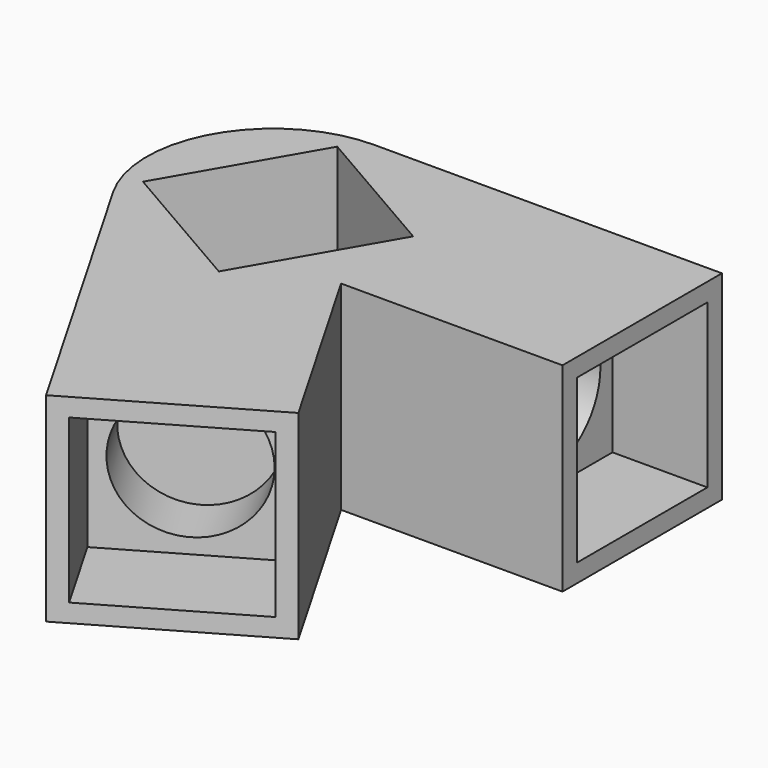
from build123d import *

# Parameters (mm, degrees)
F1_DEPTH  = 12.6
F2_W      = 10.3
F2_H      = 10.3
F3_DEPTH  = 6
F4_W      = 10.3
F4_H      = 10.3
F5_DEPTH  = 6
F6_R      = 4.2
F7_DEPTH  = 3.5
F8_R      = 4.2
F9_DEPTH  = 3.5
F11_DEPTH = 6
F13_DEPTH = 3.5


with BuildPart() as f1:
    # F0 (on Top) → F1 (new body)
    with BuildSketch(Plane.XY):
        with BuildLine():
            Line((0, -12.6), (0, 0))
            Line((0, 0), (-21.9674337148, 0))
            ThreePointArc((-21.9674337148, 0), (-28.8956369451, -4), (-28.8956369451, -12))
            Line((-28.8956369451, -12), (-17.9119200877, -31.024355653))
            Line((-17.9119200877, -31.024355653), (-7, -24.724355653))
            Line((-7, -24.724355653), (-14, -12.6))
            Line((-14, -12.6), (0, -12.6))
        make_face()
    extrude(amount=F1_DEPTH)

    # F2 (on face) → F3 (cut)
    with BuildSketch(Plane(origin=(8.9559600438, -15.5121778265, 0), x_dir=(0.8660254038, 0.5, 0), z_dir=(0.5, -0.8660254038, 0))):
        with Locations((-24.724355653, 6.3)):
            Rectangle(F2_W, F2_H)
    extrude(amount=-F3_DEPTH, mode=Mode.SUBTRACT)

    # F4 (on face) → F5 (cut)
    with BuildSketch(Plane.YZ):
        with Locations((-6.3, 6.3)):
            Rectangle(F4_W, F4_H)
    extrude(amount=-F5_DEPTH, mode=Mode.SUBTRACT)

    # F6 (on face) → F7 (cut)
    with BuildSketch(Plane.YZ.offset(-6)):
        with Locations((-6.3, 6.3)):
            Circle(F6_R)
    extrude(amount=-F7_DEPTH, mode=Mode.SUBTRACT)

    # F8 (on face) → F9 (cut)
    with BuildSketch(Plane(origin=(5.9559600438, -10.3160254038, 0), x_dir=(0.8660254038, 0.5, 0), z_dir=(0.5, -0.8660254038, 0))):
        with Locations((-24.724355653, 6.3)):
            Circle(F8_R)
    extrude(amount=-F9_DEPTH, mode=Mode.SUBTRACT)

    # F10 (on face) → F11 (cut)
    with BuildSketch(Plane.XY.offset(12.6)):
        Polygon((-19.5194863729, -15.3600308295), (-14.3694863729, -6.4399691705), (-23.2895480318, -1.2899691705), (-25.8645480318, -5.75), (-28.4395480318, -10.2100308295), align=None)
    extrude(amount=-F11_DEPTH, mode=Mode.SUBTRACT)

    # F12 (on face) → F13 (cut)
    with BuildSketch(Plane.XY.offset(6.6)):
        with BuildLine():
            ThreePointArc((-17.2045172024, -8.325), (-17.7672105065, -6.225), (-19.3045172024, -4.6876933041))
            Line((-19.3045172024, -4.6876933041), (-21.4045172024, -8.325))
            Line((-21.4045172024, -8.325), (-23.5045172024, -11.9623066959))
            ThreePointArc((-23.5045172024, -11.9623066959), (-19.3045172024, -11.9623066959), (-17.2045172024, -8.325))
        make_face()
        with BuildLine():
            Line((-21.4045172024, -8.325), (-19.3045172024, -4.6876933041))
            ThreePointArc((-19.3045172024, -4.6876933041), (-25.0418238983, -6.225), (-23.5045172024, -11.9623066959))
            Line((-23.5045172024, -11.9623066959), (-21.4045172024, -8.325))
        make_face()
    extrude(amount=-F13_DEPTH, mode=Mode.SUBTRACT)


solid = f1.part
